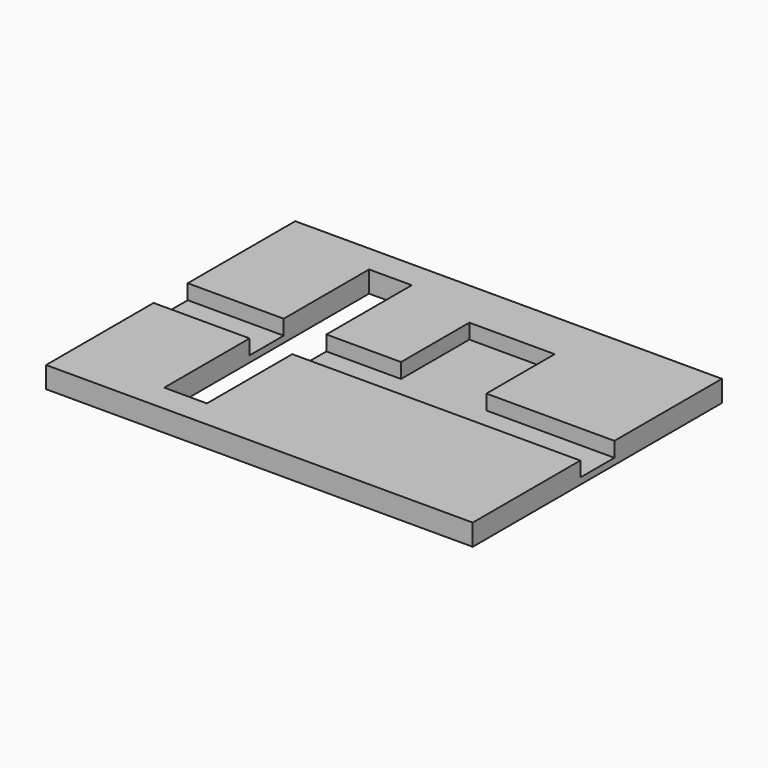
from build123d import *

# Parameters (mm, degrees)
SKETCH_W        = 100
SKETCH_H        = 73
PAD_DEPTH       = 5
SKETCH001_W     = 22.5
SKETCH001_H     = 10
POCKET_DEPTH    = 3.5
SKETCH002_W     = 10
SKETCH002_H     = 60
POCKET001_DEPTH = 5
SKETCH003_W     = 67.5
SKETCH003_H     = 10
POCKET002_DEPTH = 3.5
SKETCH004_W     = 20
SKETCH004_H     = 20
POCKET003_DEPTH = 3.5


with BuildPart() as part:
    # Sketch → Pad (new body)
    with BuildSketch(Plane.XY):
        Rectangle(SKETCH_W, SKETCH_H)
    extrude(amount=PAD_DEPTH)

    # Sketch001 (on Face6 of Pad) → Pocket (cut)
    with BuildSketch(Plane.XY.offset(5)):
        with Locations((-38.75, 0)):
            Rectangle(SKETCH001_W, SKETCH001_H)
    extrude(amount=-POCKET_DEPTH, mode=Mode.SUBTRACT)

    # Sketch002 (on Face5 of Pocket) → Pocket001 (cut)
    with BuildSketch(Plane.XY.offset(5)):
        with Locations((-22.5, 0)):
            Rectangle(SKETCH002_W, SKETCH002_H)
    extrude(amount=-POCKET001_DEPTH, mode=Mode.SUBTRACT)

    # Sketch003 (on Face5 of Pocket001) → Pocket002 (cut)
    with BuildSketch(Plane.XY.offset(5)):
        with Locations((16.25, 0)):
            Rectangle(SKETCH003_W, SKETCH003_H)
    extrude(amount=-POCKET002_DEPTH, mode=Mode.SUBTRACT)

    # Sketch004 (on Face5 of Pocket002) → Pocket003 (cut)
    with BuildSketch(Plane.XY.offset(5)):
        with Locations((10, 15)):
            Rectangle(SKETCH004_W, SKETCH004_H)
    extrude(amount=-POCKET003_DEPTH, mode=Mode.SUBTRACT)


solid = part.part
